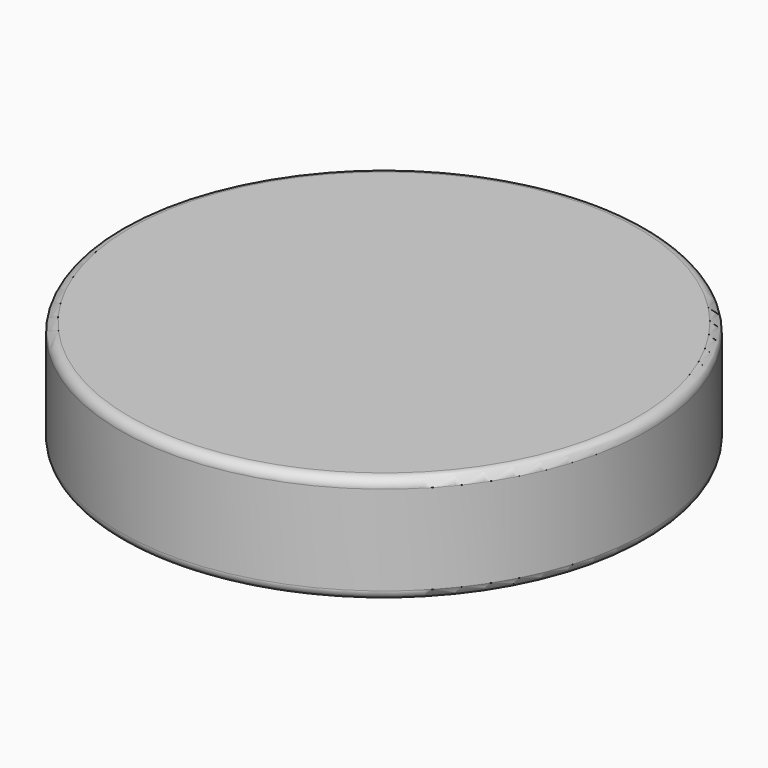
from build123d import *


with BuildPart() as f1:
    # F0 (on Front) → F1 (revolve)
    with BuildSketch(Plane.XZ):
        with BuildLine():
            Line((-54, -20), (-53, -20))
            Line((-53, -20), (-53, 0))
            Line((-53, 0), (0, 0))
            Line((0, 0), (0, 3))
            Line((0, 3), (-54, 3))
            ThreePointArc((-54, 3), (-55.414214, 2.414214), (-56, 1))
            Line((-56, 1), (-56, -18))
            ThreePointArc((-56, -18), (-55.414214, -19.414214), (-54, -20))
        make_face()
    revolve(axis=Axis((0, 0, 1.5), (0, 0, 1)))


solid = f1.part
